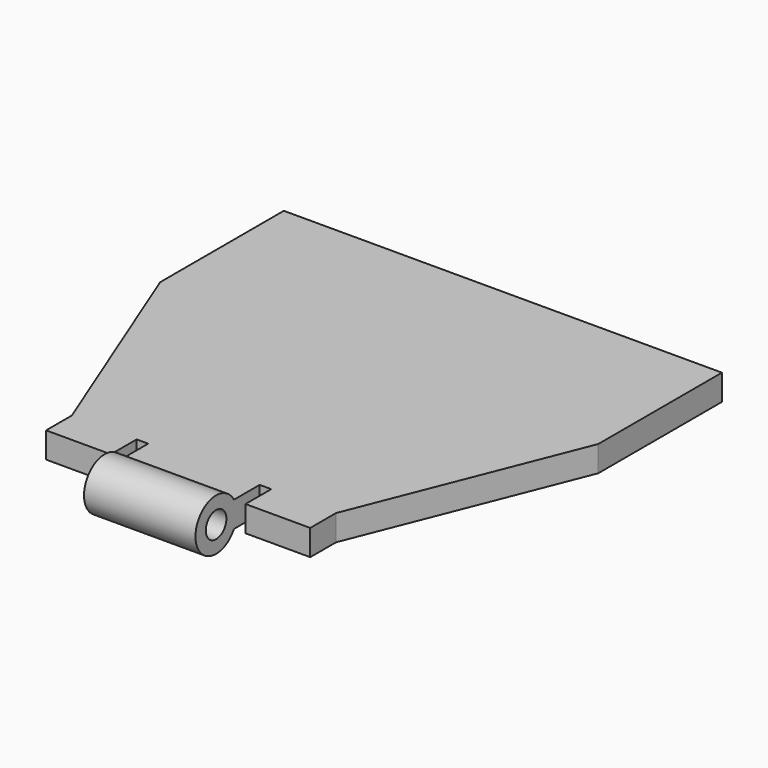
from build123d import *

# Parameters (mm, degrees)
F1_DEPTH      = 2
F2_R          = 2.0000003278
F2_R_2        = 1
F3_DEPTH      = 4.325
F3_DEPTH_BACK = 4.325
F4_W          = 0.9
F4_H          = 2.5
F5_DEPTH      = 3.0010606999


with BuildPart() as f1:
    # F0 (on Top) → F1 (new body)
    with BuildSketch(Plane.XY):
        Polygon((-10.25, 25.5), (0, 25.5), (10.25, 25.5), (10.25, 28), (0, 28), (-10.25, 28), align=None)
        Polygon((-17, 45), (-10.25, 28), (0, 28), (10.25, 28), (17, 45), (0, 45), align=None)
        Polygon((-17, 57), (-17, 45), (0, 45), (17, 45), (17, 57), (0, 57), align=None)
    extrude(amount=F1_DEPTH)

    # F2 (on Right) → F3 (join, two sides)
    with BuildSketch(Plane.YZ) as f3_sk:
        with Locations((23.7735025585, 0.9999396279)):
            Circle(F2_R)
        with Locations((23.7735025585, 0.9999396279)):
            Circle(F2_R_2, mode=Mode.SUBTRACT)
    extrude(amount=-F3_DEPTH)
    extrude(f3_sk.sketch, amount=F3_DEPTH_BACK)

    # F4 (on face) → F5 (cut, through all)
    with BuildSketch(Plane.XY.offset(2)):
        with Locations((4.775, 26.75)):
            Rectangle(F4_W, F4_H)
        with Locations((-4.775, 26.75)):
            Rectangle(F4_W, F4_H)
    extrude(amount=-F5_DEPTH, mode=Mode.SUBTRACT)


solid = f1.part
